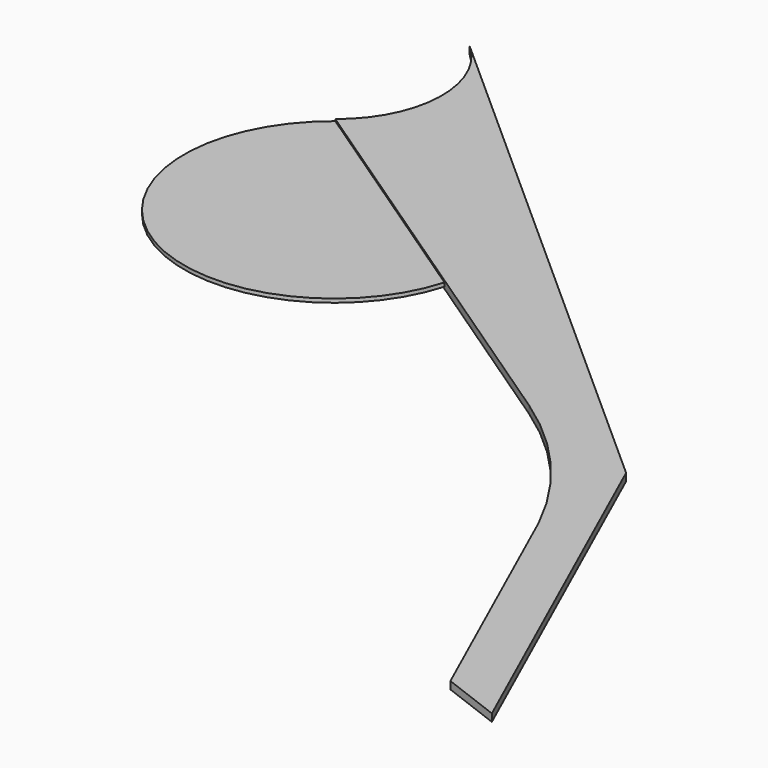
from build123d import *

# Parameters (mm, degrees)
F1_DEPTH      = 1.5875
F1_DEPTH_BACK = 1.5875
F2_DEPTH      = 3.175
F2_DEPTH_BACK = 3.175


with BuildPart() as f1:
    # F0 (on Top) → F1 (new body, two sides)
    with BuildSketch(Plane.XY) as f1_sk:
        with BuildLine():
            ThreePointArc((-240.189908, 141.027898), (-232.480487, -63.960841), (-39.572017, 5.796884))
            Line((-39.572017, 5.796884), (-240.189908, 141.027898))
        make_face()
        with BuildLine():
            ThreePointArc((-39.572017, 5.796884), (-35.770322, 23.39217), (-34.494547, 41.34821))
            ThreePointArc((-34.494547, 41.34821), (-45.59562, 93.275456), (-76.95815, 136.124777))
            ThreePointArc((-76.95815, 136.124777), (-157.681468, 168.290955), (-240.189908, 141.027898))
            Line((-240.189908, 141.027898), (-39.572017, 5.796884))
        make_face()
    extrude(amount=F1_DEPTH)
    extrude(f1_sk.sketch, amount=-F1_DEPTH_BACK)

    # F0 (on Top) → F2 (join, two sides)
    with BuildSketch(Plane.XY) as f2_sk:
        with BuildLine():
            ThreePointArc((-240.189908, 141.027898), (-157.681468, 168.290955), (-76.95815, 136.124777))
            Line((-76.95815, 136.124777), (-236.074097, 278.048981))
            ThreePointArc((-236.074097, 278.048981), (-206.193013, 208.579063), (-240.189908, 141.027898))
        make_face()
        with BuildLine():
            ThreePointArc((-76.95815, 136.124777), (-45.59562, 93.275456), (-34.494547, 41.34821))
            ThreePointArc((-34.494547, 41.34821), (-35.770322, 23.39217), (-39.572017, 5.796884))
            Line((-39.572017, 5.796884), (115.377201, -98.650131))
            ThreePointArc((115.377201, -98.650131), (179.07571, -155.098555), (225.835229, -226.214459))
            Line((225.835229, -226.214459), (321.766937, -439.594988))
            Line((321.766937, -439.594988), (372.139368, -458.721884))
            Line((372.139368, -458.721884), (226.326865, -134.391691))
            Line((226.326865, -134.391691), (-76.95815, 136.124777))
        make_face()
        with BuildLine():
            ThreePointArc((-39.572017, 5.796884), (-35.770322, 23.39217), (-34.494547, 41.34821))
            ThreePointArc((-34.494547, 41.34821), (-45.59562, 93.275456), (-76.95815, 136.124777))
            ThreePointArc((-76.95815, 136.124777), (-157.681468, 168.290955), (-240.189908, 141.027898))
            Line((-240.189908, 141.027898), (-39.572017, 5.796884))
        make_face()
    extrude(amount=F2_DEPTH)
    extrude(f2_sk.sketch, amount=-F2_DEPTH_BACK)


solid = f1.part
